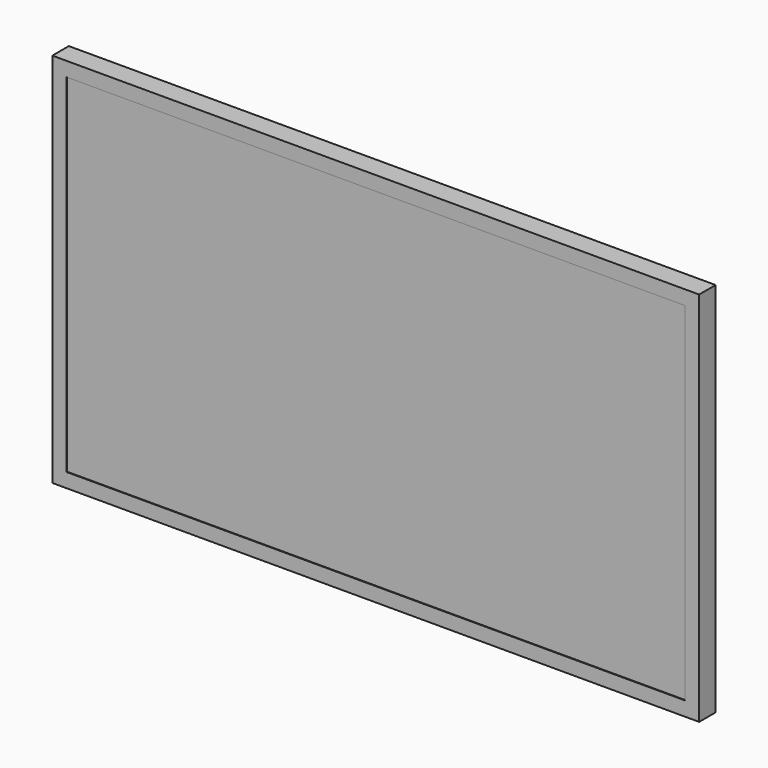
from build123d import *

# Parameters (mm, degrees)
F0_W      = 973
F0_H      = 566
F1_DEPTH  = 31
F2_W      = 789
F2_H      = 466
F3_DEPTH  = 41
F4_W      = 36.994547
F4_H      = 11.94332
F5_DEPTH  = 5
F6_W      = 930
F6_H      = 523
F7_DEPTH  = 1
F8_R      = 3
F9_DEPTH  = 43
F11_DEPTH = 881.001


with BuildPart() as f1:
    # F0 (on Front) → F1 (new body)
    with BuildSketch(Plane.XZ):
        Rectangle(F0_W, F0_H)
    extrude(amount=F1_DEPTH)

    # F2 (on face) → F3 (join)
    with BuildSketch(Plane(origin=(0, 0, 0), x_dir=(-1, 0, 0), z_dir=(0, 1, 0))):
        with Locations((0, 32)):
            Rectangle(F2_W, F2_H)
    extrude(amount=F3_DEPTH)

    # F4 (on face) → F5 (cut)
    with BuildSketch(Plane(origin=(0, 0, -201), x_dir=(1, 0, 0), z_dir=(0, 0, -1))):
        with Locations((210.368886, -20.5)):
            Rectangle(F4_W, F4_H)
    extrude(amount=-F5_DEPTH, mode=Mode.SUBTRACT)

    # F6 (on face) → F7 (cut)
    with BuildSketch(Plane.XZ.offset(31)):
        Rectangle(F6_W, F6_H)
    extrude(amount=-F7_DEPTH, mode=Mode.SUBTRACT)

    # F8 (on face) → F9 (join)
    with BuildSketch(Plane(origin=(0, 0, 0), x_dir=(-1, 0, 0), z_dir=(0, 1, 0))):
        with Locations((-150, 150)):
            Circle(F8_R)
        with Locations((150, 150)):
            Circle(F8_R)
        with Locations((-150, -150)):
            Circle(F8_R)
        with Locations((150, -150)):
            Circle(F8_R)
    extrude(amount=F9_DEPTH)

    # F10 (on face) → F11 (cut, through all)
    with BuildSketch(Plane.YZ.offset(394.5)):
        Polygon((41, 265), (0, 265), (31, 248), (41, 203), align=None)
    extrude(amount=-F11_DEPTH, mode=Mode.SUBTRACT)


solid = f1.part
